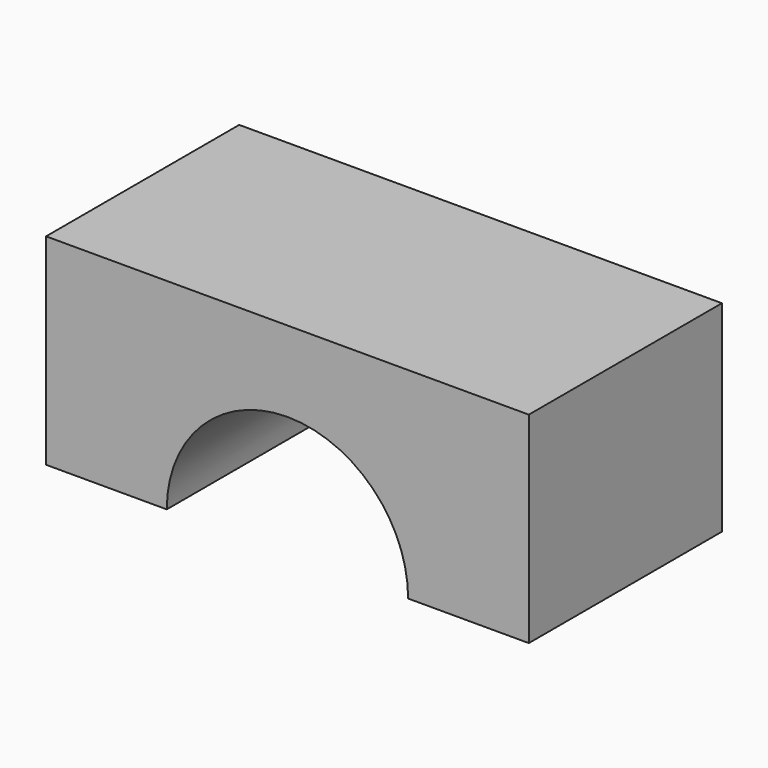
from build123d import *

# Parameters (mm, degrees)
F1_DEPTH = 9.525


with BuildPart() as f1:
    # F0 (on Front) → F1 (new body, symmetric)
    with BuildSketch(Plane.XZ):
        with BuildLine():
            Line((-19.05, 15.875), (-19.05, 0))
            Line((-19.05, 0), (-9.525, 0))
            ThreePointArc((-9.525, 0), (-6.735192, 6.735192), (0, 9.525))
            ThreePointArc((0, 9.525), (6.735192, 6.735192), (9.525, 0))
            Line((9.525, 0), (19.05, 0))
            Line((19.05, 0), (19.05, 15.875))
            Line((19.05, 15.875), (0, 15.875))
            Line((0, 15.875), (-19.05, 15.875))
        make_face()
    extrude(amount=F1_DEPTH, both=True)


solid = f1.part
